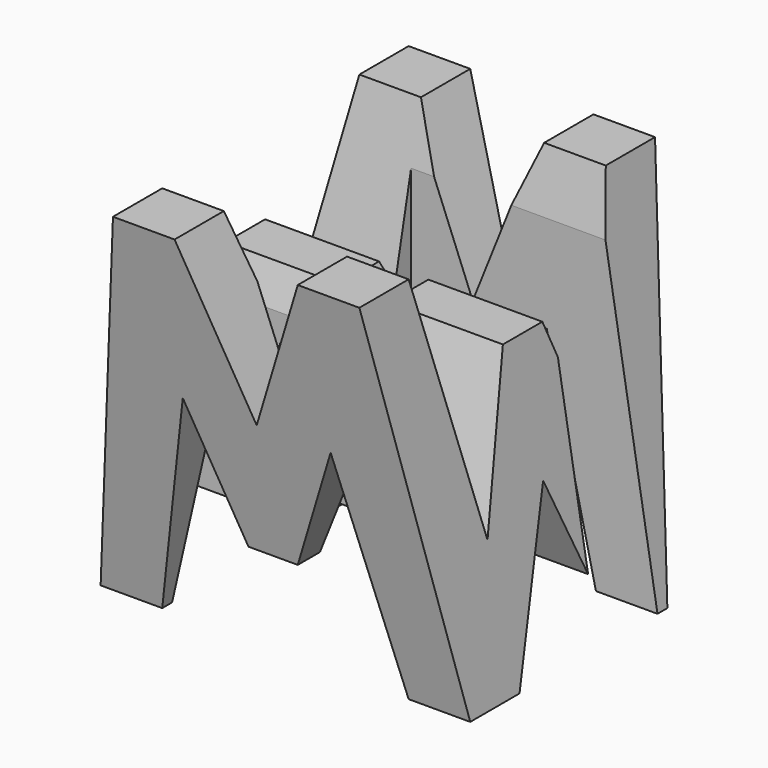
from build123d import *

# Parameters (mm, degrees)
F1_DEPTH = 38.1
F6_DEPTH = 38.1
F7_DEPTH = 38.1
F8_W     = 25.4
F8_H     = 7.62
F9_DEPTH = 38.1


with BuildPart() as f1:
    # F0 (on Front) → F1 (new body)
    with BuildSketch(Plane.XZ):
        Polygon((6.35, 38.1), (0, 0), (6.35, 0), (11.43, 22.225), (16.51, 9.525), (21.59, 9.525), (26.67, 22.225), (31.75, 0), (38.1, 0), (31.75, 38.1), (25.4, 38.1), (19.05, 22.225), (12.7, 38.1), align=None)
        Polygon((0, 38.1), (0, 0), (6.35, 38.1), align=None)
        Polygon((11.43, 22.225), (6.35, 0), (31.75, 0), (26.67, 22.225), (21.59, 9.525), (16.51, 9.525), align=None)
        Polygon((25.4, 38.1), (12.7, 38.1), (19.05, 22.225), align=None)
        Polygon((31.75, 38.1), (38.1, 0), (38.1, 38.1), align=None)
    extrude(amount=-F1_DEPTH)

    # F5 (on offset) → F6 (cut)
    with BuildSketch(Plane.YZ.offset(38.1)):
        Polygon((31.75, 38.1), (6.35, 38.1), (11.43, 13.704411), (16.51, 28.575), (21.59, 28.575), (26.67, 14.422566), align=None)
        Polygon((0, 38.1), (0, 0), (6.35, 0), align=None)
        Polygon((19.05, 15.875), (12.7, 0), (25.4, 0), align=None)
        Polygon((38.1, 0), (38.1, 38.1), (31.75, 0), align=None)
    extrude(amount=-F6_DEPTH, mode=Mode.SUBTRACT)

    # F0 (on Front) → F7 (cut)
    with BuildSketch(Plane.XZ):
        Polygon((0, 38.1), (0, 0), (6.35, 38.1), align=None)
        Polygon((25.4, 38.1), (12.7, 38.1), (19.05, 22.225), align=None)
        Polygon((31.75, 38.1), (38.1, 0), (38.1, 38.1), align=None)
        Polygon((11.43, 22.225), (6.35, 0), (31.75, 0), (26.67, 22.225), (21.59, 9.525), (16.51, 9.525), align=None)
    extrude(amount=-F7_DEPTH, mode=Mode.SUBTRACT)

    # F8 (on offset) → F9 (cut)
    with BuildSketch(Plane.XY.offset(38.1)):
        with Locations((25.4, 26.67)):
            Rectangle(F8_W, F8_H)
        with Locations((12.7, 11.43)):
            Rectangle(F8_W, F8_H)
    extrude(amount=-F9_DEPTH, mode=Mode.SUBTRACT)


solid = f1.part
